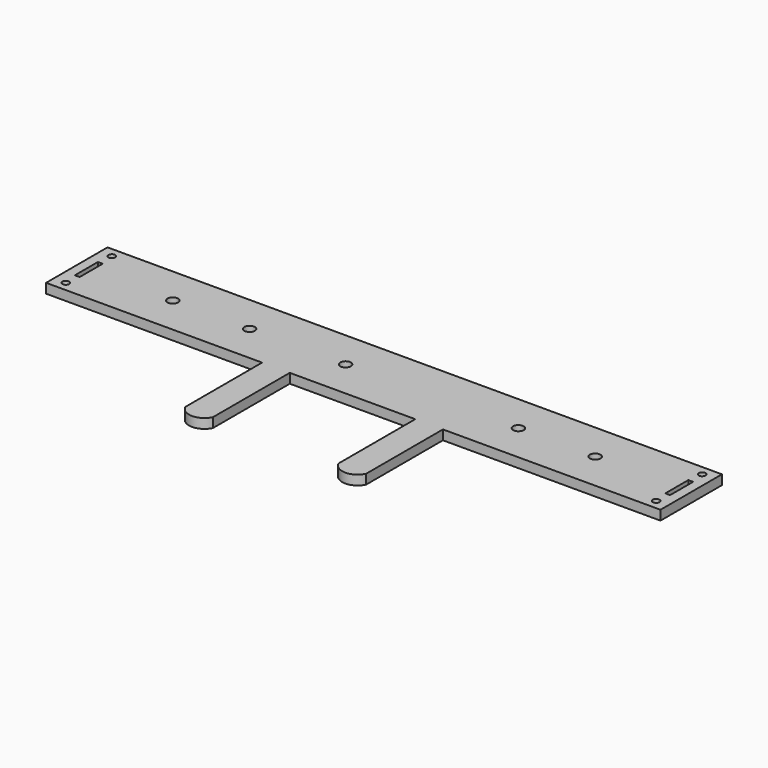
from build123d import *

# Parameters (mm, degrees)
F0_R     = 2.2479
F0_W     = 3.175
F0_H     = 19.05
F0_R_2   = 3.4925
F1_DEPTH = 6.35


with BuildPart() as f1:
    # F0 (on Top) → F1 (new body)
    with BuildSketch(Plane.XY):
        Polygon((203.2, -25.4), (203.2, 25.4), (-203.2, 25.4), (-203.2, -25.4), (-60.331323, -25.4), (-42.008828, -25.4), (40.984878, -25.4), (59.307373, -25.4), align=None)
        with Locations((-195.2625, -19.05)):
            Circle(F0_R, mode=Mode.SUBTRACT)
        with Locations((-195.2625, 0)):
            Rectangle(F0_W, F0_H, mode=Mode.SUBTRACT)
        with Locations((-139.7, 0)):
            Circle(F0_R_2, mode=Mode.SUBTRACT)
        with Locations((-195.2625, 19.05)):
            Circle(F0_R, mode=Mode.SUBTRACT)
        with Locations((-88.9, 0)):
            Circle(F0_R_2, mode=Mode.SUBTRACT)
        with Locations((-25.4, 0)):
            Circle(F0_R_2, mode=Mode.SUBTRACT)
        with Locations((195.2625, -19.05)):
            Circle(F0_R, mode=Mode.SUBTRACT)
        with Locations((88.9, 0)):
            Circle(F0_R_2, mode=Mode.SUBTRACT)
        with Locations((139.7, 0)):
            Circle(F0_R_2, mode=Mode.SUBTRACT)
        with Locations((195.2625, 0)):
            Rectangle(F0_W, F0_H, mode=Mode.SUBTRACT)
        with Locations((195.2625, 19.05)):
            Circle(F0_R, mode=Mode.SUBTRACT)
        with BuildLine():
            Line((59.307373, -88.9), (59.307373, -25.4))
            Line((59.307373, -25.4), (40.984878, -25.4))
            Line((40.984878, -25.4), (40.984878, -88.9))
            ThreePointArc((40.984878, -88.9), (50.146126, -94.667148), (59.307373, -88.9))
        make_face()
        with BuildLine():
            Line((-42.008828, -25.4), (-60.331323, -25.4))
            Line((-60.331323, -25.4), (-60.331323, -88.9))
            ThreePointArc((-60.331323, -88.9), (-51.170076, -94.667148), (-42.008828, -88.9))
            Line((-42.008828, -88.9), (-42.008828, -25.4))
        make_face()
    extrude(amount=F1_DEPTH)


solid = f1.part
